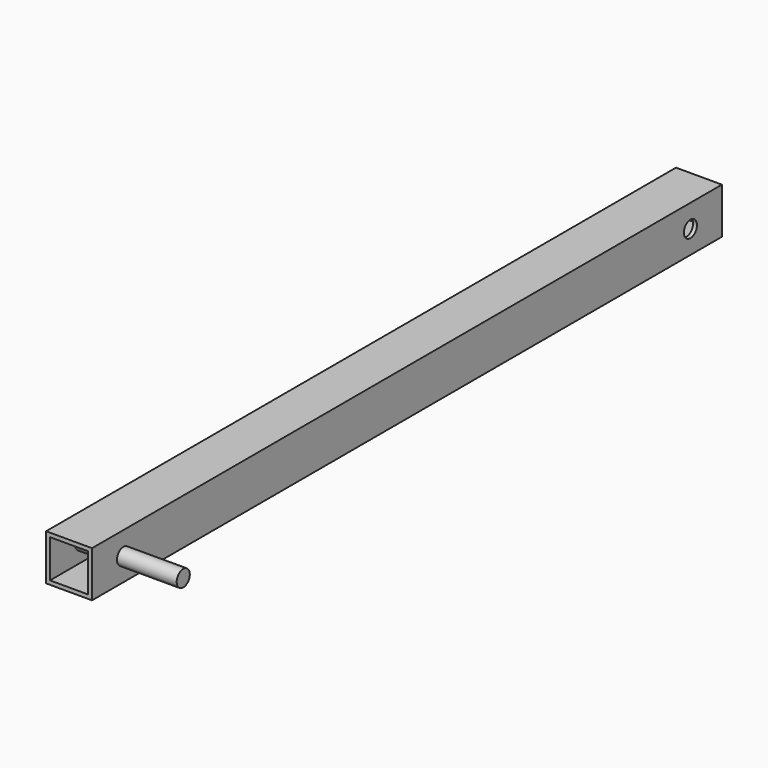
from build123d import *

# Parameters (mm, degrees)
F0_W     = 35
F0_H     = 35
F0_W_2   = 29
F0_H_2   = 29
F1_DEPTH = 300
F2_R     = 6.25
F3_DEPTH = 35.56
F4_DEPTH = 80.518


with BuildPart() as f1:
    # F0 (on Front) → F1 (new body, symmetric)
    with BuildSketch(Plane.XZ):
        with Locations((-53.6115857959, -24.8530973494)):
            Rectangle(F0_W, F0_H)
        with Locations((-53.6115857959, -24.8530973494)):
            Rectangle(F0_W_2, F0_H_2, mode=Mode.SUBTRACT)
    extrude(amount=F1_DEPTH, both=True)

    # F2 (on face) → F3 (cut)
    with BuildSketch(Plane(origin=(-71.1115857959, 0, 0), x_dir=(0, -1, 0), z_dir=(-1, 0, 0))):
        with Locations((-270, -24.8530973494)):
            Circle(F2_R)
    extrude(amount=-F3_DEPTH, mode=Mode.SUBTRACT)

    # F2 (on face) → F4 (join)
    with BuildSketch(Plane(origin=(-71.1115857959, 0, 0), x_dir=(0, -1, 0), z_dir=(-1, 0, 0))):
        with Locations((270, -24.8530973494)):
            Circle(F2_R)
    extrude(amount=-F4_DEPTH)


solid = f1.part
